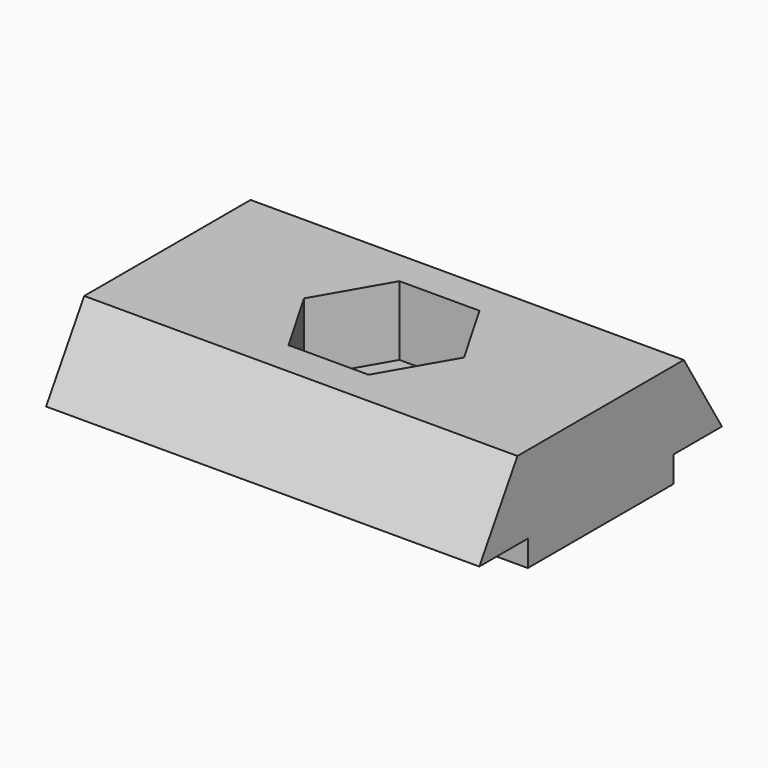
from build123d import *

# Parameters (mm, degrees)
PAD_DEPTH       = 25
POCKET_DEPTH    = 4
SKETCH002_R     = 2.5
POCKET001_DEPTH = 2.001


with BuildPart() as part:
    # Sketch → Pad (new body)
    with BuildSketch(Plane.YZ):
        Polygon((-5.25, -1.5), (5.25, -1.5), (5.25, 0), (8.75, 0), (6, 4.5), (-6, 4.5), (-8.75, 0), (-5.25, 0), align=None)
    extrude(amount=PAD_DEPTH)

    # Sketch001 (on Face5 of Pad) → Pocket (cut)
    with BuildSketch(Plane(origin=(0, 0, 4.5), x_dir=(0, -1, 0), z_dir=(0, 0, 1))):
        Polygon((4, 10.190599), (4, 14.809401), (0, 17.118802), (-4, 14.809401), (-4, 10.190599), (0, 7.881198), align=None)
    extrude(amount=-POCKET_DEPTH, mode=Mode.SUBTRACT)

    # Sketch002 (on Face17 of Pocket) → Pocket001 (cut, through all)
    with BuildSketch(Plane(origin=(0, 0, 0.5), x_dir=(0, -1, 0), z_dir=(0, 0, 1))):
        with Locations((0, 12.5)):
            Circle(SKETCH002_R)
    extrude(amount=-POCKET001_DEPTH, mode=Mode.SUBTRACT)


solid = part.part
